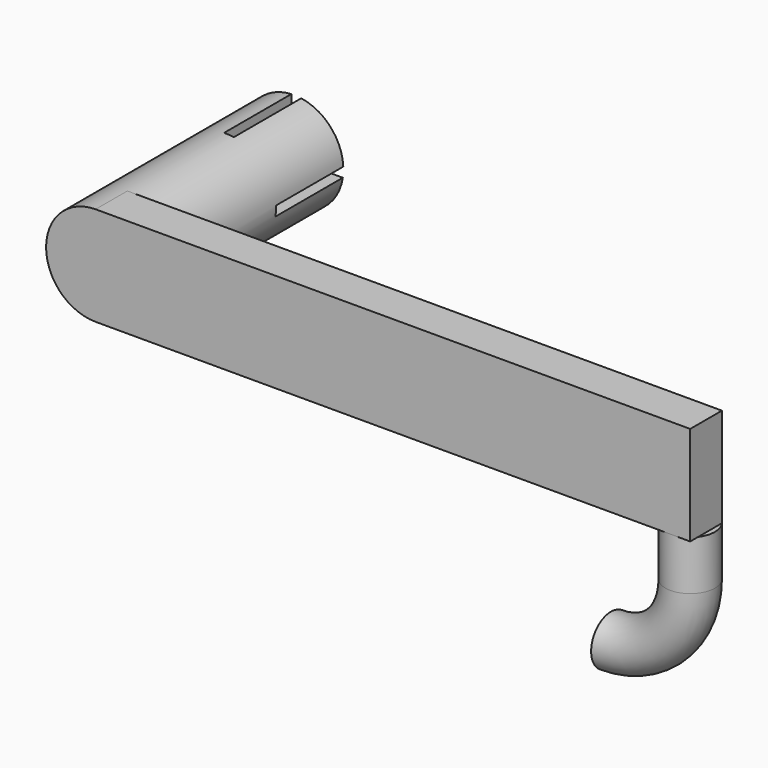
from build123d import *

# Parameters (mm, degrees)
SKETCH083_R     = 5
PAD031_DEPTH    = 25
SKETCH084_W     = 60
SKETCH084_H     = 10
PAD032_DEPTH    = 4
SKETCH085_R     = 2.5
POCKET027_DEPTH = 8.5
SKETCH088_R     = 1
POCKET028_DEPTH = 8.5


with BuildPart() as part:
    # Sketch083 → Pad031 (new body)
    with BuildSketch(Plane.XZ):
        Circle(SKETCH083_R)
    extrude(amount=PAD031_DEPTH)

    # Sketch084 (on Face3 of Pad031) → Pad032 (join)
    with BuildSketch(Plane.XZ.offset(25)):
        with Locations((30, 0)):
            Rectangle(SKETCH084_W, SKETCH084_H)
    extrude(amount=-PAD032_DEPTH)

    # AdditivePipe: sweep along a path in Sketch086
    with BuildLine(Plane.XZ.offset(23)) as additivepipe_path:
        ThreePointArc((50, -18), (55.656854, -15.656854), (58, -10))
        Line((58, -10), (58, -5))
    # Sketch085 (on Face4 of Pad032) → AdditivePipe (sweep)
    with BuildSketch(Plane(origin=(0, 0, -5), x_dir=(1, 0, 0), z_dir=(0, 0, -1))):
        with Locations((58, 22.5)):
            Circle(SKETCH085_R)
    sweep(path=additivepipe_path.line)

    # Sketch087 (on Face2 of AdditivePipe) → Pocket027 (cut)
    with BuildSketch(Plane(origin=(0, 0, 0), x_dir=(1, 0, 0), z_dir=(0, 1, 0))):
        Polygon((-0.75, 6.25), (-0.75, 0.25), (-6.25, 0.25), (-6.25, -0.75), (-0.25, -0.75), (-0.25, -6.25), (0.75, -6.25), (0.75, -0.25), (6.25, -0.25), (6.25, 0.75), (0.25, 0.75), (0.25, 6.25), align=None)
    extrude(amount=-POCKET027_DEPTH, mode=Mode.SUBTRACT)

    # Sketch088 → Pocket028 (cut)
    with BuildSketch(Plane(origin=(0, 0, 0), x_dir=(-1, 0, 0), z_dir=(0, 1, 0))):
        Circle(SKETCH088_R)
    extrude(amount=-POCKET028_DEPTH, mode=Mode.SUBTRACT)


with BuildPart() as part_1:
    # Body013 placement: moved
    add(part.part.moved(Location((-12, 0, 2))))


solid = part_1.part
